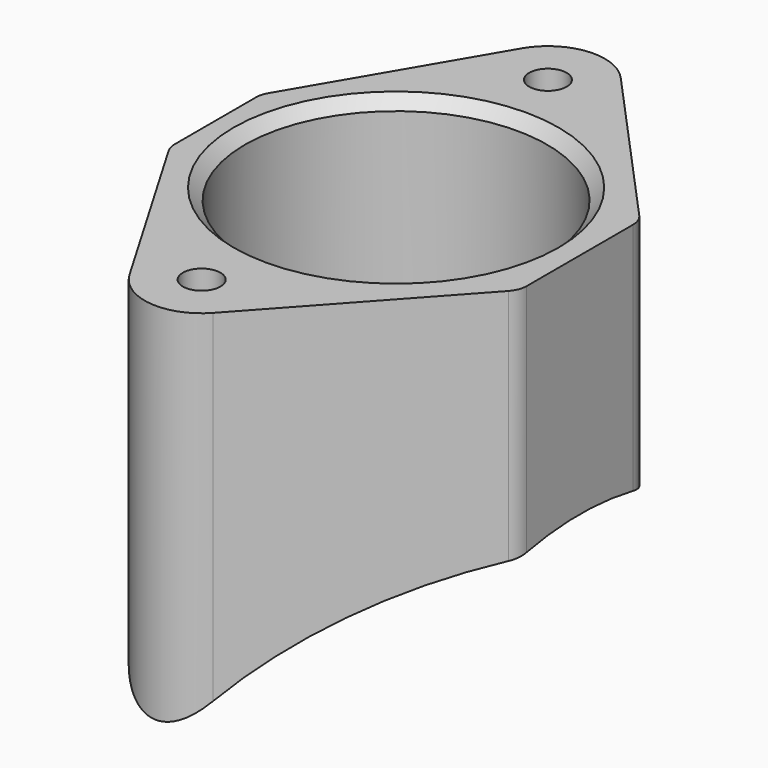
from build123d import *

# Parameters (mm, degrees)
F0_R          = 2.0955
F0_R_2        = 16.8529
F1_DEPTH      = 50.8
F2_R          = 38.1
F3_DEPTH      = 73.152
F3_DEPTH_BACK = 54.61
F4_SIZE       = 1.27
F5_R          = 2.54


with BuildPart() as f1:
    # F0 (on Top) → F1 (new body)
    with BuildSketch(Plane.XY):
        with BuildLine():
            Line((-7.8534178495, 27.3406607066), (-20.1549, 6.35))
            Line((-20.1549, 6.35), (-20.1549, -6.35))
            Line((-20.1549, -6.35), (-7.8534178495, -27.3406607066))
            ThreePointArc((-7.8534178495, -27.3406607066), (-3.0299265704, -30.4461254098), (2.328177165, -28.3965636266))
            Line((2.328177165, -28.3965636266), (20.4851, -8.382))
            Line((20.4851, -8.382), (20.4851, 8.382))
            Line((20.4851, 8.382), (2.328177165, 28.3965636266))
            ThreePointArc((2.328177165, 28.3965636266), (-3.0299265704, 30.4461254098), (-7.8534178495, 27.3406607066))
        make_face()
        with Locations((-2.3749, -24.13)):
            Circle(F0_R, mode=Mode.SUBTRACT)
        Circle(F0_R_2, mode=Mode.SUBTRACT)
        with Locations((-2.3749, 24.13)):
            Circle(F0_R, mode=Mode.SUBTRACT)
        with BuildLine():
            Line((-7.8534178495, 27.3406607066), (-20.1549, 6.35))
            Line((-20.1549, 6.35), (-20.1549, -6.35))
            Line((-20.1549, -6.35), (-7.8534178495, -27.3406607066))
            ThreePointArc((-7.8534178495, -27.3406607066), (-3.0299265704, -30.4461254098), (2.328177165, -28.3965636266))
            Line((2.328177165, -28.3965636266), (20.4851, -8.382))
            Line((20.4851, -8.382), (20.4851, 8.382))
            Line((20.4851, 8.382), (2.328177165, 28.3965636266))
            ThreePointArc((2.328177165, 28.3965636266), (-3.0299265704, 30.4461254098), (-7.8534178495, 27.3406607066))
        make_face()
        with Locations((-2.3749, -24.13)):
            Circle(F0_R, mode=Mode.SUBTRACT)
        Circle(F0_R_2, mode=Mode.SUBTRACT)
        with Locations((-2.3749, 24.13)):
            Circle(F0_R, mode=Mode.SUBTRACT)
    extrude(amount=F1_DEPTH)

    # F2 (on Right) → F3 (cut, two sides)
    with BuildSketch(Plane.YZ) as f3_sk:
        with Locations((0, -12.7)):
            Circle(F2_R)
    extrude(amount=-F3_DEPTH, mode=Mode.SUBTRACT)
    extrude(f3_sk.sketch, amount=F3_DEPTH_BACK, mode=Mode.SUBTRACT)

    # F4
    f4_edges = [f1.edges().sort_by_distance(p)[0] for p in [
        (-16.8529, 0, 50.8),
    ]]
    chamfer(f4_edges, length=F4_SIZE)

    # F5
    f5_edges = [f1.edges().sort_by_distance(p)[0] for p in [
        (20.4851, 8.382, 37.633273),
        (-20.1549, 6.35, 37.833553),
        (-20.1549, -6.35, 37.833553),
        (20.4851, -8.382, 37.633273),
    ]]
    fillet(f5_edges, radius=F5_R)


solid = f1.part
